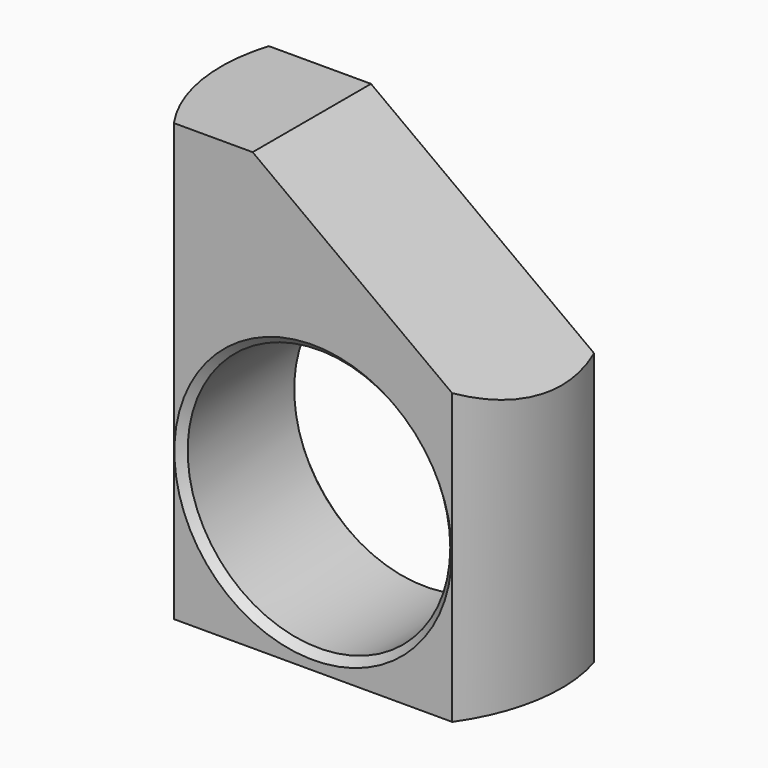
from build123d import *

# Parameters (mm, degrees)
F1_R          = 11.5
F2_DEPTH      = 19.51505
F2_DEPTH_BACK = 10
F0_R          = 8.875
F3_DEPTH      = 25
F3_DEPTH_BACK = 25
F5_DEPTH      = 25
F5_DEPTH_BACK = 25
F6_W          = 31.0526300933
F6_H          = 13.8705706969
F6_H_2        = 13.1759493425
F7_DEPTH      = 25
F7_DEPTH_BACK = 25
F8_SIZE       = 0.5


with BuildPart() as f2:
    # F1 (on Top) → F2 (new body, two sides)
    with BuildSketch(Plane.XY) as f2_sk:
        Circle(F1_R)
    extrude(amount=F2_DEPTH)
    extrude(f2_sk.sketch, amount=-F2_DEPTH_BACK)

    # F0 (on Front) → F3 (cut, two sides)
    with BuildSketch(Plane.XZ) as f3_sk:
        Circle(F0_R)
    extrude(amount=-F3_DEPTH, mode=Mode.SUBTRACT)
    extrude(f3_sk.sketch, amount=F3_DEPTH_BACK, mode=Mode.SUBTRACT)

    # F4 (on Front) → F5 (cut, two sides)
    with BuildSketch(Plane.XZ) as f5_sk:
        Polygon((24.7668549418, 28.5545103252), (-16.3316316903, 28.5545103252), (24.7668549418, -1.7773286672), align=None)
    extrude(amount=-F5_DEPTH, mode=Mode.SUBTRACT)
    extrude(f5_sk.sketch, amount=F5_DEPTH_BACK, mode=Mode.SUBTRACT)

    # F6 (on Top) → F7 (cut, two sides)
    with BuildSketch(Plane.XY) as f7_sk:
        with Locations((1.910218969, 10.3145037405)):
            Rectangle(F6_W, F6_H)
        with Locations((1.910218969, -13.2087562792)):
            Rectangle(F6_W, F6_H_2)
    extrude(amount=-F7_DEPTH, mode=Mode.SUBTRACT)
    extrude(f7_sk.sketch, amount=F7_DEPTH_BACK, mode=Mode.SUBTRACT)

    # F8
    f8_edges = [f2.edges().sort_by_distance(p)[0] for p in [
        (-8.875, 3.379218, 0),
        (-8.875, -6.620782, 0),
    ]]
    chamfer(f8_edges, length=F8_SIZE)


solid = f2.part
